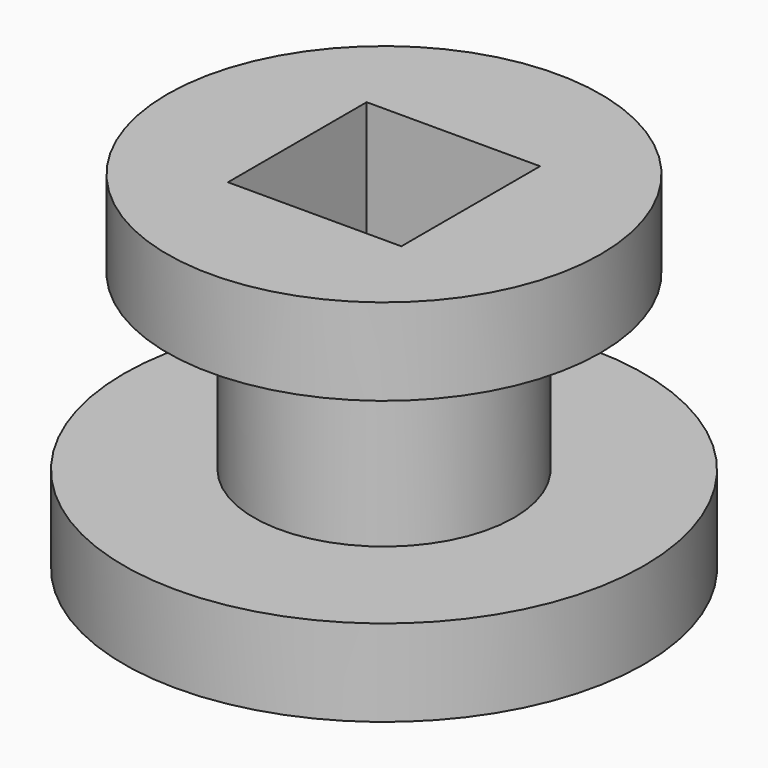
from build123d import *

# Parameters (mm, degrees)
F0_R     = 38.1
F1_DEPTH = 12.7
F2_R     = 19.05
F3_DEPTH = 25.4
F4_R     = 31.75
F5_DEPTH = 12.7
F6_W     = 25.4
F6_H     = 25.4
F7_DEPTH = 25.4
F8_R     = 6.35
F9_DEPTH = 50.801


with BuildPart() as f1:
    # F0 (on Top) → F1 (new body)
    with BuildSketch(Plane.XY):
        Circle(F0_R)
    extrude(amount=F1_DEPTH)

    # F2 (on face) → F3 (join)
    with BuildSketch(Plane.XY.offset(12.7)):
        Circle(F2_R)
    extrude(amount=F3_DEPTH)

    # F4 (on face) → F5 (join)
    with BuildSketch(Plane.XY.offset(38.1)):
        Circle(F4_R)
    extrude(amount=F5_DEPTH)

    # F6 (on face) → F7 (cut)
    with BuildSketch(Plane.XY.offset(50.8)):
        Rectangle(F6_W, F6_H)
    extrude(amount=-F7_DEPTH, mode=Mode.SUBTRACT)

    # F8 (on face) → F9 (cut, through all)
    with BuildSketch(Plane.XY.offset(50.8)):
        Circle(F8_R)
    extrude(amount=-F9_DEPTH, mode=Mode.SUBTRACT)


solid = f1.part
